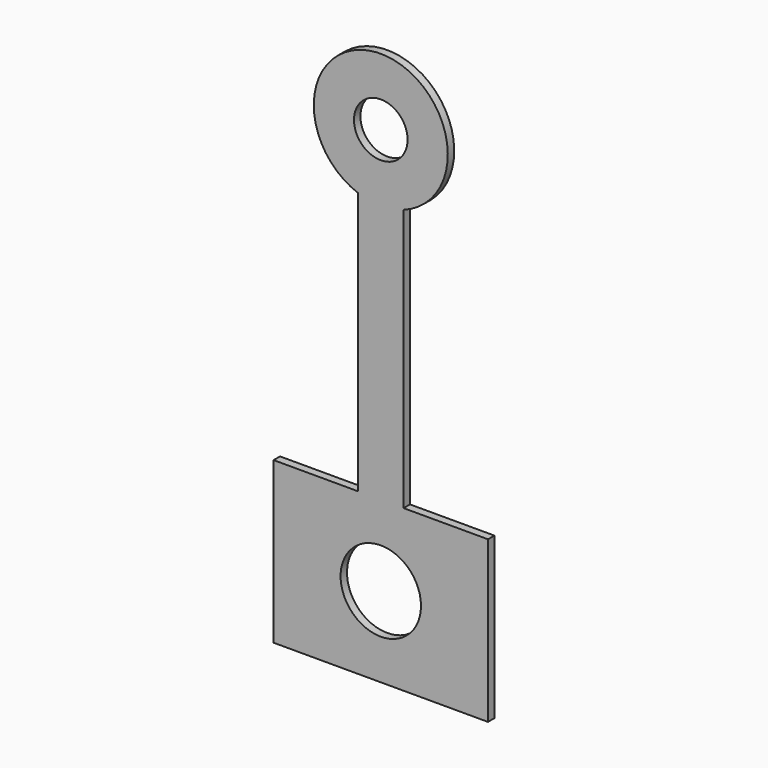
from build123d import *

# Parameters (mm, degrees)
F0_R     = 1.5
F0_R_2   = 1
F1_DEPTH = 0.3


with BuildPart() as f1:
    # F0 (on Front) → F1 (new body)
    with BuildSketch(Plane.XZ):
        with BuildLine():
            Line((-4, -3), (4, -3))
            Line((4, -3), (4, 3))
            Line((4, 3), (0.85, 3))
            Line((0.85, 3), (0.85, 12.8))
            ThreePointArc((0.85, 12.8), (0, 17.651064), (-0.85, 12.8))
            Line((-0.85, 12.8), (-0.85, 3))
            Line((-0.85, 3), (-4, 3))
            Line((-4, 3), (-4, -3))
        make_face()
        Circle(F0_R, mode=Mode.SUBTRACT)
        with Locations((0, 15.151064)):
            Circle(F0_R_2, mode=Mode.SUBTRACT)
    extrude(amount=F1_DEPTH)


solid = f1.part
